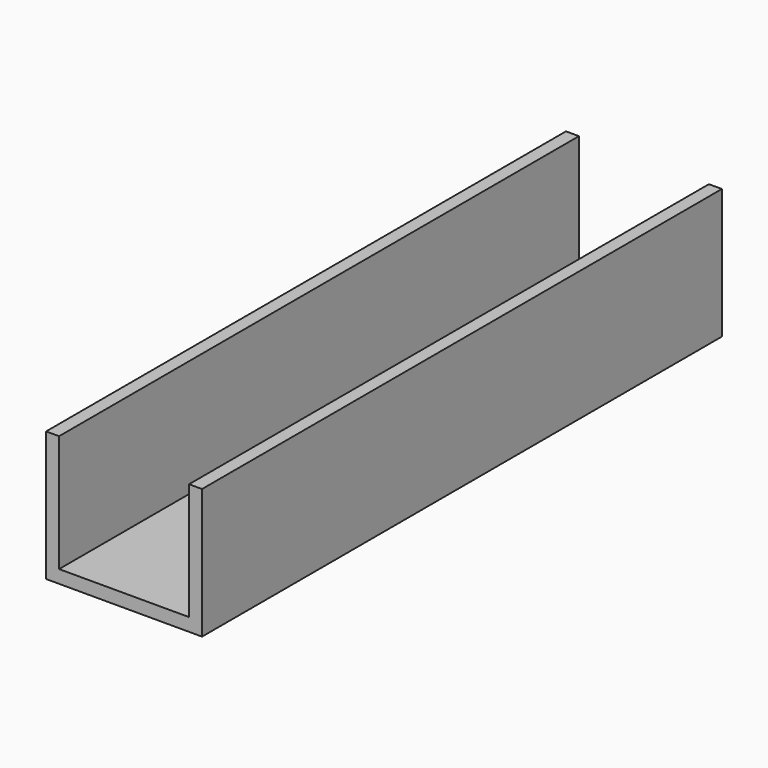
from build123d import *

# Parameters (mm, degrees)
F0_W     = 10
F0_H     = 50
F1_DEPTH = 1
F0_W_2   = 1
F2_DEPTH = 10


with BuildPart() as f1:
    # F0 (on Top) → F1 (new body)
    with BuildSketch(Plane.XY):
        Rectangle(F0_W, F0_H)
    extrude(amount=F1_DEPTH)

    # F0 (on Top) → F2 (join)
    with BuildSketch(Plane.XY):
        with Locations((-5.5, 0)):
            Rectangle(F0_W_2, F0_H)
        with Locations((5.5, 0)):
            Rectangle(F0_W_2, F0_H)
    extrude(amount=F2_DEPTH)


solid = f1.part
